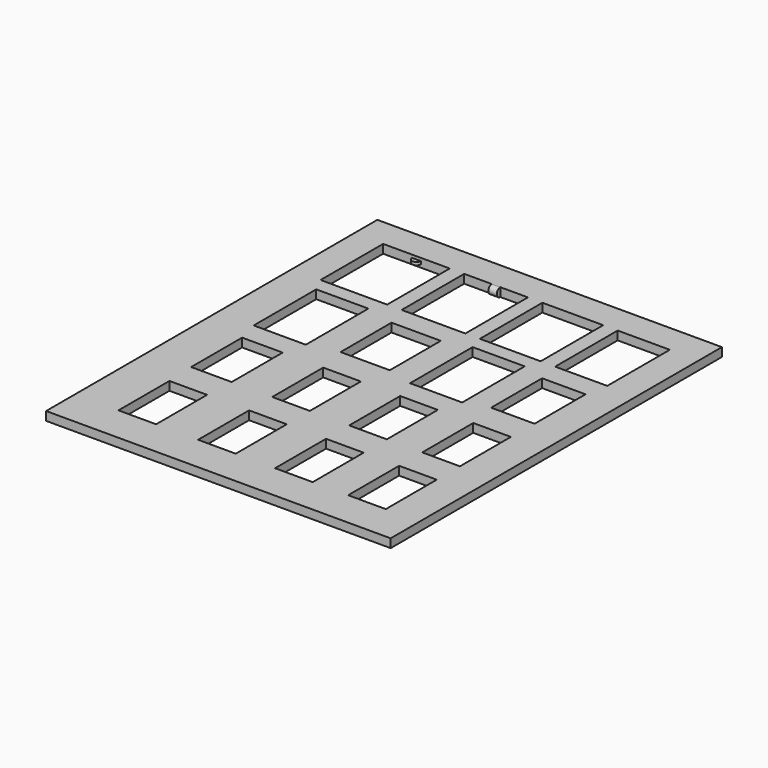
from build123d import *

# Parameters (mm, degrees)
F0_W     = 119
F0_H     = 143
F0_W_2   = 13
F0_H_2   = 22
F0_W_3   = 14
F0_W_4   = 18
F0_H_3   = 27
F0_W_5   = 17
F0_W_6   = 23
F0_W_7   = 22
F0_W_8   = 15
F0_W_9   = 21
F1_DEPTH = 3
F2_W     = 1.5
F2_H     = 1
F4_W     = 1.463154
F4_H     = 1.5


with BuildPart() as f1:
    # F0 (on Top) → F1 (new body)
    with BuildSketch(Plane.XY):
        Rectangle(F0_W, F0_H)
        with Locations((-38, -48)):
            Rectangle(F0_W_2, F0_H_2, mode=Mode.SUBTRACT)
        with Locations((-10.5, -48)):
            Rectangle(F0_W_2, F0_H_2, mode=Mode.SUBTRACT)
        with Locations((-38, -16)):
            Rectangle(F0_W_3, F0_H_2, mode=Mode.SUBTRACT)
        with Locations((-10.5, -16)):
            Rectangle(F0_W_2, F0_H_2, mode=Mode.SUBTRACT)
        with Locations((16.07851, -48)):
            Rectangle(F0_W_2, F0_H_2, mode=Mode.SUBTRACT)
        with Locations((41.315013, -48)):
            Rectangle(F0_W_2, F0_H_2, mode=Mode.SUBTRACT)
        with Locations((16.07851, -16)):
            Rectangle(F0_W_2, F0_H_2, mode=Mode.SUBTRACT)
        with Locations((41.315013, -16)):
            Rectangle(F0_W_2, F0_H_2, mode=Mode.SUBTRACT)
        with Locations((-38, 16)):
            Rectangle(F0_W_4, F0_H_3, mode=Mode.SUBTRACT)
        with Locations((-10.5, 16)):
            Rectangle(F0_W_5, F0_H_2, mode=Mode.SUBTRACT)
        with Locations((-38, 48)):
            Rectangle(F0_W_6, F0_H_3, mode=Mode.SUBTRACT)
        with Locations((-10.5, 48)):
            Rectangle(F0_W_7, F0_H_3, mode=Mode.SUBTRACT)
        with Locations((16, 16)):
            Rectangle(F0_W_4, F0_H_3, mode=Mode.SUBTRACT)
        with Locations((40.5, 16)):
            Rectangle(F0_W_8, F0_H_2, mode=Mode.SUBTRACT)
        with Locations((16, 48)):
            Rectangle(F0_W_9, F0_H_3, mode=Mode.SUBTRACT)
        with Locations((40.5, 48)):
            Rectangle(F0_W_4, F0_H_3, mode=Mode.SUBTRACT)
    extrude(amount=F1_DEPTH)

    # F2 (on face) → F3 (revolve)
    with BuildSketch(Plane.XZ.offset(-61.5)):
        with Locations((-37.25, 1.5)):
            Rectangle(F2_W, F2_H)
    revolve(axis=Axis((-38, 61.5, 1.5), (0, 0, -1)))

    # F4 (on face) → F5 (revolve)
    with BuildSketch(Plane.XZ.offset(-61.5)):
        with Locations((-11.231577, 2.25)):
            Rectangle(F4_W, F4_H)
        with Locations((-9.768423, 2.25)):
            Rectangle(F4_W, F4_H)
    revolve(axis=Axis((-10.5, 61.5, 1.5), (-1, 0, 0)))


solid = f1.part
